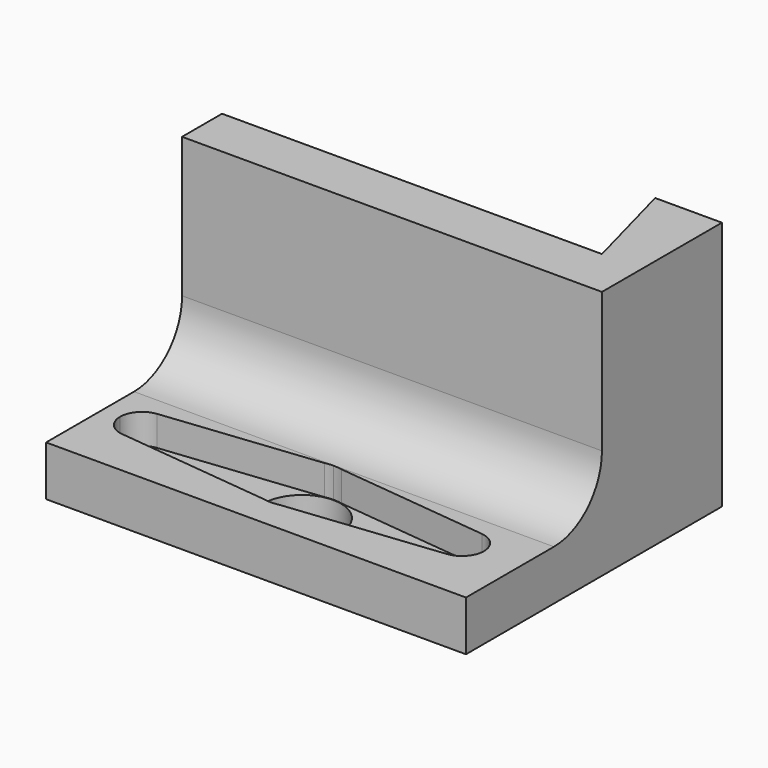
from build123d import *

# Parameters (mm, degrees)
PAD029_DEPTH                  = 20
PAD029_DEPTH_BACK             = 22
POCKET050_DEPTH               = 130.2017462661
POCKET050_MIRRORED022_2_DEPTH = 130.2017462661
PAD052_DEPTH                  = 25
SKETCH105_R                   = 3.9
POCKET053_DEPTH               = 0.001
POCKET053_DEPTH_BACK          = 30.001


with BuildPart() as part:
    # Sketch053 → Pad029 (new body, two sides)
    with BuildSketch(Plane.YZ) as pad029_sk:
        with BuildLine():
            Line((-7, 5), (-7, 10))
            Line((-7, 10), (4, 10))
            ThreePointArc((4, 10), (8.2426406871, 11.7573593129), (10, 16))
            Line((10, 16), (10, 30))
            Line((10, 30), (15, 30))
            Line((15, 30), (15, 5))
            Line((15, 5), (-7, 5))
        make_face()
    extrude(amount=-PAD029_DEPTH)
    extrude(pad029_sk.sketch, amount=PAD029_DEPTH_BACK)

    # Sketch100 → Pocket050 (cut, through all)
    with BuildSketch(Plane(origin=(0, 0, 7), x_dir=(-1, 0, 0), z_dir=(0, 0, -1))):
        with BuildLine():
            ThreePointArc((0, 3.95), (-2.7930717857, 2.7930717857), (-3.95, 0))
            Line((-3.95, 0), (18.2, 0))
            ThreePointArc((18.2, 0), (17.6374362231, 1.4692864307), (16.2374521678, 2.1871480215))
            Line((0, 3.95), (16.2374521678, 2.1871480215))
        make_face()
    pocket050 = extrude(amount=-POCKET050_DEPTH, mode=Mode.SUBTRACT)

    # Sketch100 Mirrored022 2 → Pocket050 Mirrored022 2 (cut, through all)
    with BuildSketch(Plane.XY.offset(7)):
        with BuildLine():
            ThreePointArc((0, 3.95), (-2.7930717857, 2.7930717857), (-3.95, 0))
            Line((-3.95, 0), (18.2, 0))
            ThreePointArc((18.2, 0), (17.6374362231, 1.4692864307), (16.2374521678, 2.1871480215))
            Line((0, 3.95), (16.2374521678, 2.1871480215))
        make_face()
    pocket050_mirrored022_2 = extrude(amount=POCKET050_MIRRORED022_2_DEPTH, mode=Mode.SUBTRACT)

    # Mirrored023: Pocket050, Pocket050 Mirrored022 2 across Sketch100 H_Axis
    add(pocket050.mirror(Plane(origin=(0, 0, 7), x_dir=(0, 0, -1), z_dir=(0, 1, 0))), mode=Mode.SUBTRACT)
    add(pocket050_mirrored022_2.mirror(Plane(origin=(0, 0, 7), x_dir=(0, 0, -1), z_dir=(0, 1, 0))), mode=Mode.SUBTRACT)

    # Sketch101 (on Face2 of MultiTransform004) → Pad052 (join)
    with BuildSketch(Plane.YX.offset(-5)):
        Polygon((15, 22), (25, 22), (25, 15.3205080757), (15, 18), align=None)
    extrude(amount=-PAD052_DEPTH)

    # Sketch105 → Pocket053 (cut, two sides)
    with BuildSketch(Plane.XY) as pocket053_sk:
        Circle(SKETCH105_R)
    extrude(amount=-POCKET053_DEPTH, mode=Mode.SUBTRACT)
    extrude(pocket053_sk.sketch, amount=POCKET053_DEPTH_BACK, mode=Mode.SUBTRACT)


solid = part.part
